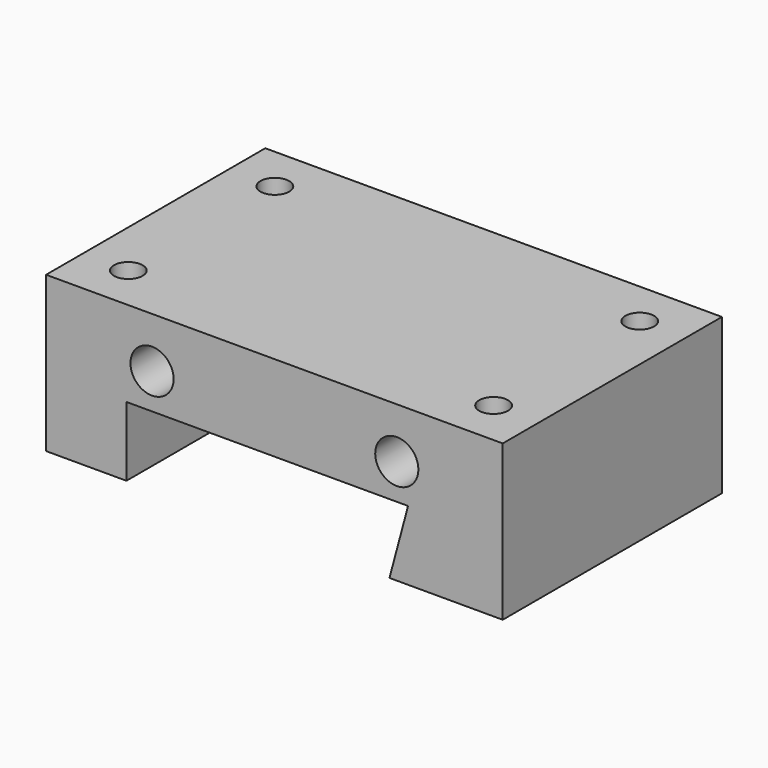
from build123d import *

# Parameters (mm, degrees)
F0_W     = 31.75
F0_H     = 19.05
F1_DEPTH = 10.795
F3_DEPTH = 25.4
F5_D     = 3
F7_D     = 2
F7_DEPTH = 6.35
F7_TIP   = 0.600860619
F9_D     = 3.4544
F9_DEPTH = 6.35
F9_TIP   = 1.0378064612


with BuildPart() as f1:
    # F0 (on Top) → F1 (new body)
    with BuildSketch(Plane.XY):
        with Locations((15.875, 9.525)):
            Rectangle(F0_W, F0_H)
    extrude(amount=F1_DEPTH)

    # F2 (on face) → F3 (cut)
    with BuildSketch(Plane.XZ):
        Polygon((23.876, 0), (25.1691228027, 4.826), (5.588, 4.826), (5.588, 0), align=None)
    extrude(amount=-F3_DEPTH, mode=Mode.SUBTRACT)

    # F5 (through all)
    with Locations(Plane.XZ):
        with Locations((7.366, 7.2898), (24.384, 7.2898)):
            Hole(F5_D / 2)

    # F7
    with Locations(Plane.XY.offset(10.795)):
        with Locations((3.2063322142, 15.875), (3.175, 3.175), (28.575, 15.875), (28.575, 3.175)):
            Hole(F7_D / 2, depth=F7_DEPTH)
            with Locations((0, 0, -(F7_DEPTH + F7_TIP / 2))):  # 118° drill point
                Cone(0, F7_D / 2, F7_TIP, mode=Mode.SUBTRACT)

    # F9
    with Locations(Plane(origin=(0, 0, 0), x_dir=(0, -1, 0), z_dir=(-1, 0, 0))):
        with Locations((-9.525, 2.413)):
            Hole(F9_D / 2, depth=F9_DEPTH)
            with Locations((0, 0, -(F9_DEPTH + F9_TIP / 2))):  # 118° drill point
                Cone(0, F9_D / 2, F9_TIP, mode=Mode.SUBTRACT)


solid = f1.part
